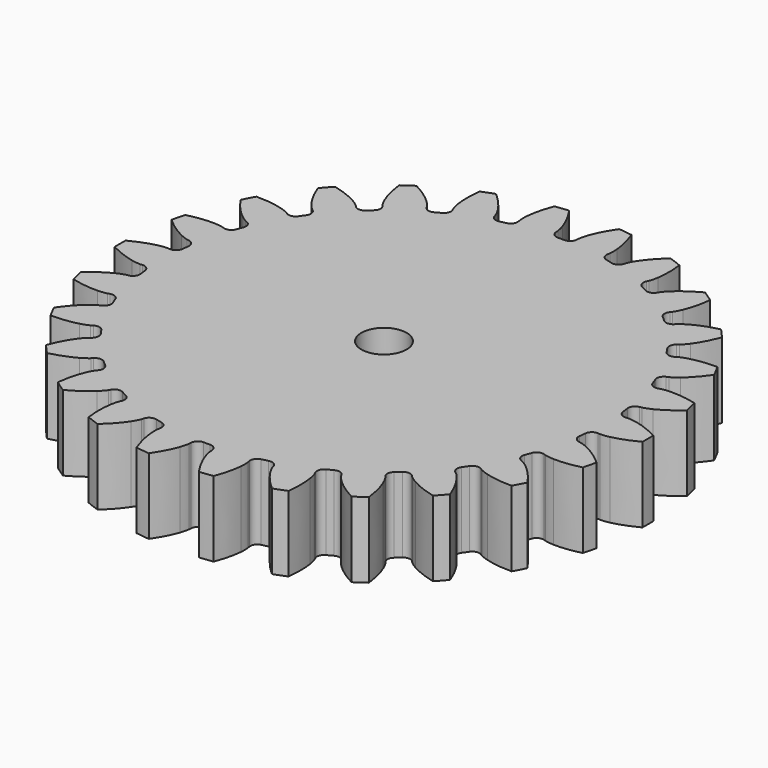
from build123d import *

# Parameters (mm, degrees)
PAD_DEPTH  = 10
SKETCH_R   = 3
HOLE_DEPTH = 25


with BuildPart() as part:
    # InvoluteGear → Pad (new body)
    with BuildSketch(Plane.XY):
        with BuildLine():
            Line((30.212099, -2.279877), (30.502529, -2.299907))
            add(Edge.make_bspline(
                [(30.502529, -2.299907), (30.632497, -2.302355), (31.024091, -2.295099), (31.676261, -2.158069)],
                knots=[0, 0, 0, 0, 1, 1, 1, 1], degree=3))
            add(Edge.make_bspline(
                [(31.676261, -2.158069), (32.457678, -1.991856), (33.586555, -1.640863), (34.990904, -0.903734)],
                knots=[0, 0, 0, 0, 1, 1, 1, 1], degree=3))
            ThreePointArc((34.990904, -0.903734), (35.002573, 0), (34.990904, 0.903734))
            add(Edge.make_bspline(
                [(34.990904, 0.903734), (33.586555, 1.640863), (32.457678, 1.991856), (31.676261, 2.158069)],
                knots=[0, 0, 0, 0, 1, 1, 1, 1], degree=3))
            add(Edge.make_bspline(
                [(31.676261, 2.158069), (31.024091, 2.295099), (30.632497, 2.302355), (30.502529, 2.299907)],
                knots=[0, 0, 0, 0, 1, 1, 1, 1], degree=3))
            Line((30.502529, 2.299907), (30.212099, 2.279877))
            ThreePointArc((30.212099, 2.279877), (29.541638, 2.494297), (29.209386, 3.114863))
            ThreePointArc((29.209386, 3.114863), (29.160823, 3.540765), (29.10605, 3.965913))
            ThreePointArc((29.10605, 3.965913), (29.280136, 4.64796), (29.8798, 5.016601))
            Line((29.8798, 5.016601), (30.166584, 5.066657))
            add(Edge.make_bspline(
                [(30.166584, 5.066657), (30.293362, 5.095384), (30.67184, 5.196144), (31.272266, 5.485266)],
                knots=[0, 0, 0, 0, 1, 1, 1, 1], degree=3))
            add(Edge.make_bspline(
                [(31.272266, 5.485266), (31.991199, 5.833654), (33.003274, 6.444606), (34.190409, 7.496398)],
                knots=[0, 0, 0, 0, 1, 1, 1, 1], degree=3))
            ThreePointArc((34.190409, 7.496398), (33.985462, 8.376664), (33.757854, 9.251344))
            add(Edge.make_bspline(
                [(33.757854, 9.251344), (32.217906, 9.630971), (31.037834, 9.701607), (30.239346, 9.675985)],
                knots=[0, 0, 0, 0, 1, 1, 1, 1], degree=3))
            add(Edge.make_bspline(
                [(30.239346, 9.675985), (29.573334, 9.652958), (29.191383, 9.566289), (29.065777, 9.532808)],
                knots=[0, 0, 0, 0, 1, 1, 1, 1], degree=3))
            Line((29.065777, 9.532808), (28.78858, 9.443856))
            ThreePointArc((28.78858, 9.443856), (28.086288, 9.491594), (27.615179, 10.014614))
            ThreePointArc((27.615179, 10.014614), (27.466102, 10.416519), (27.311176, 10.816205))
            ThreePointArc((27.311176, 10.816205), (27.316979, 11.520094), (27.810997, 12.021532))
            Line((27.810997, 12.021532), (28.077468, 12.138766))
            add(Edge.make_bspline(
                [(28.077468, 12.138766), (28.193687, 12.196997), (28.537054, 12.385405), (29.050841, 12.809817)],
                knots=[0, 0, 0, 0, 1, 1, 1, 1], degree=3))
            add(Edge.make_bspline(
                [(29.050841, 12.809817), (29.665508, 13.320134), (30.501964, 14.155538), (31.402893, 15.460867)],
                knots=[0, 0, 0, 0, 1, 1, 1, 1], degree=3))
            ThreePointArc((31.402893, 15.460867), (30.99324, 16.266507), (30.56292, 17.0613))
            add(Edge.make_bspline(
                [(30.56292, 17.0613), (28.97687, 17.061362), (27.814185, 16.847536), (27.045031, 16.631567)],
                knots=[0, 0, 0, 0, 1, 1, 1, 1], degree=3))
            add(Edge.make_bspline(
                [(27.045031, 16.631567), (26.403883, 16.449823), (26.053772, 16.274265), (25.939828, 16.211698)],
                knots=[0, 0, 0, 0, 1, 1, 1, 1], degree=3))
            Line((25.939828, 16.211698), (25.691973, 16.058993))
            ThreePointArc((25.691973, 16.058993), (24.998664, 15.937274), (24.416078, 16.332353))
            ThreePointArc((24.416078, 16.332353), (24.175151, 16.686902), (23.929076, 17.037898))
            ThreePointArc((23.929076, 17.037898), (23.766258, 17.722722), (24.125919, 18.327815))
            Line((24.125919, 18.327815), (24.356591, 18.505413))
            add(Edge.make_bspline(
                [(24.356591, 18.505413), (24.455497, 18.589766), (24.743798, 18.854872), (25.141086, 19.389909)],
                knots=[0, 0, 0, 0, 1, 1, 1, 1], degree=3))
            add(Edge.make_bspline(
                [(25.141086, 19.389909), (25.615766, 20.032496), (26.22799, 21.043802), (26.790354, 22.526807)],
                knots=[0, 0, 0, 0, 1, 1, 1, 1], degree=3))
            ThreePointArc((26.790354, 22.526807), (26.199802, 23.211), (25.591781, 23.879716))
            add(Edge.make_bspline(
                [(25.591781, 23.879716), (24.051804, 23.500209), (22.974076, 23.014347), (22.278957, 22.620584)],
                knots=[0, 0, 0, 0, 1, 1, 1, 1], degree=3))
            add(Edge.make_bspline(
                [(22.278957, 22.620584), (21.699934, 22.290684), (21.40201, 22.03644), (21.30635, 21.948423)],
                knots=[0, 0, 0, 0, 1, 1, 1, 1], degree=3))
            Line((21.30635, 21.948423), (21.102243, 21.74084))
            ThreePointArc((21.102243, 21.74084), (20.458209, 21.456738), (19.798004, 21.700914))
            ThreePointArc((19.798004, 21.700914), (19.479228, 21.987503), (19.156304, 22.26941))
            ThreePointArc((19.156304, 22.26941), (18.834329, 22.89537), (19.03873, 23.568952))
            Line((19.03873, 23.568952), (19.220197, 23.796593))
            add(Edge.make_bspline(
                [(19.220197, 23.796593), (19.296043, 23.902165), (19.512522, 24.228562), (19.770223, 24.843129)],
                knots=[0, 0, 0, 0, 1, 1, 1, 1], degree=3))
            add(Edge.make_bspline(
                [(19.770223, 24.843129), (20.077328, 25.580642), (20.429741, 26.709076), (20.620857, 28.28357)],
                knots=[0, 0, 0, 0, 1, 1, 1, 1], degree=3))
            ThreePointArc((20.620857, 28.28357), (19.883728, 28.806553), (19.13334, 29.310329))
            add(Edge.make_bspline(
                [(19.13334, 29.310329), (17.728934, 28.573309), (16.798797, 27.843649), (16.218111, 27.294974)],
                knots=[0, 0, 0, 0, 1, 1, 1, 1], degree=3))
            add(Edge.make_bspline(
                [(16.218111, 27.294974), (15.734863, 26.836091), (15.506441, 26.517938), (15.434625, 26.409585)],
                knots=[0, 0, 0, 0, 1, 1, 1, 1], degree=3))
            Line((15.434625, 26.409585), (15.286126, 26.159188))
            ThreePointArc((15.286126, 26.159188), (14.728797, 25.729214), (14.029341, 25.808297))
            ThreePointArc((14.029341, 25.808297), (13.651243, 26.010271), (13.270238, 26.206705))
            ThreePointArc((13.270238, 26.206705), (12.807817, 26.737422), (12.84508, 27.440348))
            Line((12.84508, 27.440348), (12.966796, 27.704802))
            add(Edge.make_bspline(
                [(12.966796, 27.704802), (13.015172, 27.825456), (13.147249, 28.194176), (13.250386, 28.852557)],
                knots=[0, 0, 0, 0, 1, 1, 1, 1], degree=3))
            add(Edge.make_bspline(
                [(13.250386, 28.852557), (13.372069, 29.642134), (13.44419, 30.822116), (13.252951, 32.396595)],
                knots=[0, 0, 0, 0, 1, 1, 1, 1], degree=3))
            ThreePointArc((13.252951, 32.396595), (12.412084, 32.727975), (11.56294, 33.037532))
            add(Edge.make_bspline(
                [(11.56294, 33.037532), (10.375723, 31.985832), (9.647233, 31.054778), (9.214727, 30.38308)],
                knots=[0, 0, 0, 0, 1, 1, 1, 1], degree=3))
            add(Edge.make_bspline(
                [(9.214727, 30.38308), (8.85534, 29.821882), (8.709694, 29.458309), (8.665896, 29.335918)],
                knots=[0, 0, 0, 0, 1, 1, 1, 1], degree=3))
            Line((8.665896, 29.335918), (8.581636, 29.057259))
            ThreePointArc((8.581636, 29.057259), (8.143401, 28.506401), (7.445344, 28.415796))
            ThreePointArc((7.445344, 28.415796), (7.029898, 28.521416), (6.612954, 28.620962))
            ThreePointArc((6.612954, 28.620962), (6.036962, 29.025592), (5.90492, 29.71701))
            Line((5.90492, 29.71701), (5.959811, 30.002908))
            add(Edge.make_bspline(
                [(5.959811, 30.002908), (5.977908, 30.131634), (6.017906, 30.521247), (5.960485, 31.185179)],
                knots=[0, 0, 0, 0, 1, 1, 1, 1], degree=3))
            add(Edge.make_bspline(
                [(5.960485, 31.185179), (5.889674, 31.980933), (5.677311, 33.143887), (5.114832, 34.626848)],
                knots=[0, 0, 0, 0, 1, 1, 1, 1], degree=3))
            ThreePointArc((5.114832, 34.626848), (4.219094, 34.747365), (3.320543, 34.844714))
            add(Edge.make_bspline(
                [(3.320543, 34.844714), (2.419513, 33.539455), (1.935007, 32.461117), (1.675817, 31.705432)],
                knots=[0, 0, 0, 0, 1, 1, 1, 1], degree=3))
            add(Edge.make_bspline(
                [(1.675817, 31.705432), (1.461176, 31.074534), (1.406771, 30.68667), (1.393536, 30.557354)],
                knots=[0, 0, 0, 0, 1, 1, 1, 1], degree=3))
            Line((1.393536, 30.557354), (1.378412, 30.266627))
            ThreePointArc((1.378412, 30.266627), (1.08474, 29.626901), (0.428651, 29.371872))
            ThreePointArc((0.428651, 29.371872), (0, 29.375), (-0.428651, 29.371872))
            ThreePointArc((-0.428651, 29.371872), (-1.08474, 29.626901), (-1.378412, 30.266627))
            Line((-1.378412, 30.266627), (-1.393536, 30.557354))
            add(Edge.make_bspline(
                [(-1.393536, 30.557354), (-1.406771, 30.68667), (-1.461176, 31.074534), (-1.675817, 31.705432)],
                knots=[0, 0, 0, 0, 1, 1, 1, 1], degree=3))
            add(Edge.make_bspline(
                [(-1.675817, 31.705432), (-1.935007, 32.461117), (-2.419513, 33.539455), (-3.320543, 34.844714)],
                knots=[0, 0, 0, 0, 1, 1, 1, 1], degree=3))
            ThreePointArc((-3.320543, 34.844714), (-4.219094, 34.747365), (-5.114832, 34.626848))
            add(Edge.make_bspline(
                [(-5.114832, 34.626848), (-5.677311, 33.143887), (-5.889674, 31.980933), (-5.960485, 31.185179)],
                knots=[0, 0, 0, 0, 1, 1, 1, 1], degree=3))
            add(Edge.make_bspline(
                [(-5.960485, 31.185179), (-6.017906, 30.521247), (-5.977908, 30.131634), (-5.959811, 30.002908)],
                knots=[0, 0, 0, 0, 1, 1, 1, 1], degree=3))
            Line((-5.959811, 30.002908), (-5.90492, 29.71701))
            ThreePointArc((-5.90492, 29.71701), (-6.036962, 29.025592), (-6.612954, 28.620962))
            ThreePointArc((-6.612954, 28.620962), (-7.029898, 28.521416), (-7.445344, 28.415796))
            ThreePointArc((-7.445344, 28.415796), (-8.143401, 28.506401), (-8.581636, 29.057259))
            Line((-8.581636, 29.057259), (-8.665896, 29.335918))
            add(Edge.make_bspline(
                [(-8.665896, 29.335918), (-8.709694, 29.458309), (-8.85534, 29.821882), (-9.214727, 30.38308)],
                knots=[0, 0, 0, 0, 1, 1, 1, 1], degree=3))
            add(Edge.make_bspline(
                [(-9.214727, 30.38308), (-9.647233, 31.054778), (-10.375723, 31.985832), (-11.56294, 33.037532)],
                knots=[0, 0, 0, 0, 1, 1, 1, 1], degree=3))
            ThreePointArc((-11.56294, 33.037532), (-12.412084, 32.727975), (-13.252951, 32.396595))
            add(Edge.make_bspline(
                [(-13.252951, 32.396595), (-13.44419, 30.822116), (-13.372069, 29.642134), (-13.250386, 28.852557)],
                knots=[0, 0, 0, 0, 1, 1, 1, 1], degree=3))
            add(Edge.make_bspline(
                [(-13.250386, 28.852557), (-13.147249, 28.194176), (-13.015172, 27.825456), (-12.966796, 27.704802)],
                knots=[0, 0, 0, 0, 1, 1, 1, 1], degree=3))
            Line((-12.966796, 27.704802), (-12.84508, 27.440348))
            ThreePointArc((-12.84508, 27.440348), (-12.807817, 26.737422), (-13.270238, 26.206705))
            ThreePointArc((-13.270238, 26.206705), (-13.651243, 26.010271), (-14.029341, 25.808297))
            ThreePointArc((-14.029341, 25.808297), (-14.728797, 25.729214), (-15.286126, 26.159188))
            Line((-15.286126, 26.159188), (-15.434625, 26.409585))
            add(Edge.make_bspline(
                [(-15.434625, 26.409585), (-15.506441, 26.517938), (-15.734863, 26.836091), (-16.218111, 27.294974)],
                knots=[0, 0, 0, 0, 1, 1, 1, 1], degree=3))
            add(Edge.make_bspline(
                [(-16.218111, 27.294974), (-16.798797, 27.843649), (-17.728934, 28.573309), (-19.13334, 29.310329)],
                knots=[0, 0, 0, 0, 1, 1, 1, 1], degree=3))
            ThreePointArc((-19.13334, 29.310329), (-19.883728, 28.806553), (-20.620857, 28.28357))
            add(Edge.make_bspline(
                [(-20.620857, 28.28357), (-20.429741, 26.709076), (-20.077328, 25.580642), (-19.770223, 24.843129)],
                knots=[0, 0, 0, 0, 1, 1, 1, 1], degree=3))
            add(Edge.make_bspline(
                [(-19.770223, 24.843129), (-19.512522, 24.228562), (-19.296043, 23.902165), (-19.220197, 23.796593)],
                knots=[0, 0, 0, 0, 1, 1, 1, 1], degree=3))
            Line((-19.220197, 23.796593), (-19.03873, 23.568952))
            ThreePointArc((-19.03873, 23.568952), (-18.834329, 22.89537), (-19.156304, 22.26941))
            ThreePointArc((-19.156304, 22.26941), (-19.479228, 21.987503), (-19.798004, 21.700914))
            ThreePointArc((-19.798004, 21.700914), (-20.458209, 21.456738), (-21.102243, 21.74084))
            Line((-21.102243, 21.74084), (-21.30635, 21.948423))
            add(Edge.make_bspline(
                [(-21.30635, 21.948423), (-21.40201, 22.03644), (-21.699934, 22.290684), (-22.278957, 22.620584)],
                knots=[0, 0, 0, 0, 1, 1, 1, 1], degree=3))
            add(Edge.make_bspline(
                [(-22.278957, 22.620584), (-22.974076, 23.014347), (-24.051804, 23.500209), (-25.591781, 23.879716)],
                knots=[0, 0, 0, 0, 1, 1, 1, 1], degree=3))
            ThreePointArc((-25.591781, 23.879716), (-26.199802, 23.211), (-26.790354, 22.526807))
            add(Edge.make_bspline(
                [(-26.790354, 22.526807), (-26.22799, 21.043802), (-25.615766, 20.032496), (-25.141086, 19.389909)],
                knots=[0, 0, 0, 0, 1, 1, 1, 1], degree=3))
            add(Edge.make_bspline(
                [(-25.141086, 19.389909), (-24.743798, 18.854872), (-24.455497, 18.589766), (-24.356591, 18.505413)],
                knots=[0, 0, 0, 0, 1, 1, 1, 1], degree=3))
            Line((-24.356591, 18.505413), (-24.125919, 18.327815))
            ThreePointArc((-24.125919, 18.327815), (-23.766258, 17.722722), (-23.929076, 17.037898))
            ThreePointArc((-23.929076, 17.037898), (-24.175151, 16.686902), (-24.416078, 16.332353))
            ThreePointArc((-24.416078, 16.332353), (-24.998664, 15.937274), (-25.691973, 16.058993))
            Line((-25.691973, 16.058993), (-25.939828, 16.211698))
            add(Edge.make_bspline(
                [(-25.939828, 16.211698), (-26.053772, 16.274265), (-26.403883, 16.449823), (-27.045031, 16.631567)],
                knots=[0, 0, 0, 0, 1, 1, 1, 1], degree=3))
            add(Edge.make_bspline(
                [(-27.045031, 16.631567), (-27.814185, 16.847536), (-28.97687, 17.061362), (-30.56292, 17.0613)],
                knots=[0, 0, 0, 0, 1, 1, 1, 1], degree=3))
            ThreePointArc((-30.56292, 17.0613), (-30.99324, 16.266507), (-31.402893, 15.460867))
            add(Edge.make_bspline(
                [(-31.402893, 15.460867), (-30.501964, 14.155538), (-29.665508, 13.320134), (-29.050841, 12.809817)],
                knots=[0, 0, 0, 0, 1, 1, 1, 1], degree=3))
            add(Edge.make_bspline(
                [(-29.050841, 12.809817), (-28.537054, 12.385405), (-28.193687, 12.196997), (-28.077468, 12.138766)],
                knots=[0, 0, 0, 0, 1, 1, 1, 1], degree=3))
            Line((-28.077468, 12.138766), (-27.810997, 12.021532))
            ThreePointArc((-27.810997, 12.021532), (-27.316979, 11.520094), (-27.311176, 10.816205))
            ThreePointArc((-27.311176, 10.816205), (-27.466102, 10.416519), (-27.615179, 10.014614))
            ThreePointArc((-27.615179, 10.014614), (-28.086288, 9.491594), (-28.78858, 9.443856))
            Line((-28.78858, 9.443856), (-29.065777, 9.532808))
            add(Edge.make_bspline(
                [(-29.065777, 9.532808), (-29.191383, 9.566289), (-29.573334, 9.652958), (-30.239346, 9.675985)],
                knots=[0, 0, 0, 0, 1, 1, 1, 1], degree=3))
            add(Edge.make_bspline(
                [(-30.239346, 9.675985), (-31.037834, 9.701607), (-32.217906, 9.630971), (-33.757854, 9.251344)],
                knots=[0, 0, 0, 0, 1, 1, 1, 1], degree=3))
            ThreePointArc((-33.757854, 9.251344), (-33.985462, 8.376664), (-34.190409, 7.496398))
            add(Edge.make_bspline(
                [(-34.190409, 7.496398), (-33.003274, 6.444606), (-31.991199, 5.833654), (-31.272266, 5.485266)],
                knots=[0, 0, 0, 0, 1, 1, 1, 1], degree=3))
            add(Edge.make_bspline(
                [(-31.272266, 5.485266), (-30.67184, 5.196144), (-30.293362, 5.095384), (-30.166584, 5.066657)],
                knots=[0, 0, 0, 0, 1, 1, 1, 1], degree=3))
            Line((-30.166584, 5.066657), (-29.8798, 5.016601))
            ThreePointArc((-29.8798, 5.016601), (-29.280136, 4.64796), (-29.10605, 3.965913))
            ThreePointArc((-29.10605, 3.965913), (-29.160823, 3.540765), (-29.209386, 3.114863))
            ThreePointArc((-29.209386, 3.114863), (-29.541638, 2.494297), (-30.212099, 2.279877))
            Line((-30.212099, 2.279877), (-30.502529, 2.299907))
            add(Edge.make_bspline(
                [(-30.502529, 2.299907), (-30.632497, 2.302355), (-31.024091, 2.295099), (-31.676261, 2.158069)],
                knots=[0, 0, 0, 0, 1, 1, 1, 1], degree=3))
            add(Edge.make_bspline(
                [(-31.676261, 2.158069), (-32.457678, 1.991856), (-33.586555, 1.640863), (-34.990904, 0.903734)],
                knots=[0, 0, 0, 0, 1, 1, 1, 1], degree=3))
            ThreePointArc((-34.990904, 0.903734), (-35.002573, 0), (-34.990904, -0.903734))
            add(Edge.make_bspline(
                [(-34.990904, -0.903734), (-33.586555, -1.640863), (-32.457678, -1.991856), (-31.676261, -2.158069)],
                knots=[0, 0, 0, 0, 1, 1, 1, 1], degree=3))
            add(Edge.make_bspline(
                [(-31.676261, -2.158069), (-31.024091, -2.295099), (-30.632497, -2.302355), (-30.502529, -2.299907)],
                knots=[0, 0, 0, 0, 1, 1, 1, 1], degree=3))
            Line((-30.502529, -2.299907), (-30.212099, -2.279877))
            ThreePointArc((-30.212099, -2.279877), (-29.541638, -2.494297), (-29.209386, -3.114863))
            ThreePointArc((-29.209386, -3.114863), (-29.160823, -3.540765), (-29.10605, -3.965913))
            ThreePointArc((-29.10605, -3.965913), (-29.280136, -4.64796), (-29.8798, -5.016601))
            Line((-29.8798, -5.016601), (-30.166584, -5.066657))
            add(Edge.make_bspline(
                [(-30.166584, -5.066657), (-30.293362, -5.095384), (-30.67184, -5.196144), (-31.272266, -5.485266)],
                knots=[0, 0, 0, 0, 1, 1, 1, 1], degree=3))
            add(Edge.make_bspline(
                [(-31.272266, -5.485266), (-31.991199, -5.833654), (-33.003274, -6.444606), (-34.190409, -7.496398)],
                knots=[0, 0, 0, 0, 1, 1, 1, 1], degree=3))
            ThreePointArc((-34.190409, -7.496398), (-33.985462, -8.376664), (-33.757854, -9.251344))
            add(Edge.make_bspline(
                [(-33.757854, -9.251344), (-32.217906, -9.630971), (-31.037834, -9.701607), (-30.239346, -9.675985)],
                knots=[0, 0, 0, 0, 1, 1, 1, 1], degree=3))
            add(Edge.make_bspline(
                [(-30.239346, -9.675985), (-29.573334, -9.652958), (-29.191383, -9.566289), (-29.065777, -9.532808)],
                knots=[0, 0, 0, 0, 1, 1, 1, 1], degree=3))
            Line((-29.065777, -9.532808), (-28.78858, -9.443856))
            ThreePointArc((-28.78858, -9.443856), (-28.086288, -9.491594), (-27.615179, -10.014614))
            ThreePointArc((-27.615179, -10.014614), (-27.466102, -10.416519), (-27.311176, -10.816205))
            ThreePointArc((-27.311176, -10.816205), (-27.316979, -11.520094), (-27.810997, -12.021532))
            Line((-27.810997, -12.021532), (-28.077468, -12.138766))
            add(Edge.make_bspline(
                [(-28.077468, -12.138766), (-28.193687, -12.196997), (-28.537054, -12.385405), (-29.050841, -12.809817)],
                knots=[0, 0, 0, 0, 1, 1, 1, 1], degree=3))
            add(Edge.make_bspline(
                [(-29.050841, -12.809817), (-29.665508, -13.320134), (-30.501964, -14.155538), (-31.402893, -15.460867)],
                knots=[0, 0, 0, 0, 1, 1, 1, 1], degree=3))
            ThreePointArc((-31.402893, -15.460867), (-30.99324, -16.266507), (-30.56292, -17.0613))
            add(Edge.make_bspline(
                [(-30.56292, -17.0613), (-28.97687, -17.061362), (-27.814185, -16.847536), (-27.045031, -16.631567)],
                knots=[0, 0, 0, 0, 1, 1, 1, 1], degree=3))
            add(Edge.make_bspline(
                [(-27.045031, -16.631567), (-26.403883, -16.449823), (-26.053772, -16.274265), (-25.939828, -16.211698)],
                knots=[0, 0, 0, 0, 1, 1, 1, 1], degree=3))
            Line((-25.939828, -16.211698), (-25.691973, -16.058993))
            ThreePointArc((-25.691973, -16.058993), (-24.998664, -15.937274), (-24.416078, -16.332353))
            ThreePointArc((-24.416078, -16.332353), (-24.175151, -16.686902), (-23.929076, -17.037898))
            ThreePointArc((-23.929076, -17.037898), (-23.766258, -17.722722), (-24.125919, -18.327815))
            Line((-24.125919, -18.327815), (-24.356591, -18.505413))
            add(Edge.make_bspline(
                [(-24.356591, -18.505413), (-24.455497, -18.589766), (-24.743798, -18.854872), (-25.141086, -19.389909)],
                knots=[0, 0, 0, 0, 1, 1, 1, 1], degree=3))
            add(Edge.make_bspline(
                [(-25.141086, -19.389909), (-25.615766, -20.032496), (-26.22799, -21.043802), (-26.790354, -22.526807)],
                knots=[0, 0, 0, 0, 1, 1, 1, 1], degree=3))
            ThreePointArc((-26.790354, -22.526807), (-26.199802, -23.211), (-25.591781, -23.879716))
            add(Edge.make_bspline(
                [(-25.591781, -23.879716), (-24.051804, -23.500209), (-22.974076, -23.014347), (-22.278957, -22.620584)],
                knots=[0, 0, 0, 0, 1, 1, 1, 1], degree=3))
            add(Edge.make_bspline(
                [(-22.278957, -22.620584), (-21.699934, -22.290684), (-21.40201, -22.03644), (-21.30635, -21.948423)],
                knots=[0, 0, 0, 0, 1, 1, 1, 1], degree=3))
            Line((-21.30635, -21.948423), (-21.102243, -21.74084))
            ThreePointArc((-21.102243, -21.74084), (-20.458209, -21.456738), (-19.798004, -21.700914))
            ThreePointArc((-19.798004, -21.700914), (-19.479228, -21.987503), (-19.156304, -22.26941))
            ThreePointArc((-19.156304, -22.26941), (-18.834329, -22.89537), (-19.03873, -23.568952))
            Line((-19.03873, -23.568952), (-19.220197, -23.796593))
            add(Edge.make_bspline(
                [(-19.220197, -23.796593), (-19.296043, -23.902165), (-19.512522, -24.228562), (-19.770223, -24.843129)],
                knots=[0, 0, 0, 0, 1, 1, 1, 1], degree=3))
            add(Edge.make_bspline(
                [(-19.770223, -24.843129), (-20.077328, -25.580642), (-20.429741, -26.709076), (-20.620857, -28.28357)],
                knots=[0, 0, 0, 0, 1, 1, 1, 1], degree=3))
            ThreePointArc((-20.620857, -28.28357), (-19.883728, -28.806553), (-19.13334, -29.310329))
            add(Edge.make_bspline(
                [(-19.13334, -29.310329), (-17.728934, -28.573309), (-16.798797, -27.843649), (-16.218111, -27.294974)],
                knots=[0, 0, 0, 0, 1, 1, 1, 1], degree=3))
            add(Edge.make_bspline(
                [(-16.218111, -27.294974), (-15.734863, -26.836091), (-15.506441, -26.517938), (-15.434625, -26.409585)],
                knots=[0, 0, 0, 0, 1, 1, 1, 1], degree=3))
            Line((-15.434625, -26.409585), (-15.286126, -26.159188))
            ThreePointArc((-15.286126, -26.159188), (-14.728797, -25.729214), (-14.029341, -25.808297))
            ThreePointArc((-14.029341, -25.808297), (-13.651243, -26.010271), (-13.270238, -26.206705))
            ThreePointArc((-13.270238, -26.206705), (-12.807817, -26.737422), (-12.84508, -27.440348))
            Line((-12.84508, -27.440348), (-12.966796, -27.704802))
            add(Edge.make_bspline(
                [(-12.966796, -27.704802), (-13.015172, -27.825456), (-13.147249, -28.194176), (-13.250386, -28.852557)],
                knots=[0, 0, 0, 0, 1, 1, 1, 1], degree=3))
            add(Edge.make_bspline(
                [(-13.250386, -28.852557), (-13.372069, -29.642134), (-13.44419, -30.822116), (-13.252951, -32.396595)],
                knots=[0, 0, 0, 0, 1, 1, 1, 1], degree=3))
            ThreePointArc((-13.252951, -32.396595), (-12.412084, -32.727975), (-11.56294, -33.037532))
            add(Edge.make_bspline(
                [(-11.56294, -33.037532), (-10.375723, -31.985832), (-9.647233, -31.054778), (-9.214727, -30.38308)],
                knots=[0, 0, 0, 0, 1, 1, 1, 1], degree=3))
            add(Edge.make_bspline(
                [(-9.214727, -30.38308), (-8.85534, -29.821882), (-8.709694, -29.458309), (-8.665896, -29.335918)],
                knots=[0, 0, 0, 0, 1, 1, 1, 1], degree=3))
            Line((-8.665896, -29.335918), (-8.581636, -29.057259))
            ThreePointArc((-8.581636, -29.057259), (-8.143401, -28.506401), (-7.445344, -28.415796))
            ThreePointArc((-7.445344, -28.415796), (-7.029898, -28.521416), (-6.612954, -28.620962))
            ThreePointArc((-6.612954, -28.620962), (-6.036962, -29.025592), (-5.90492, -29.71701))
            Line((-5.90492, -29.71701), (-5.959811, -30.002908))
            add(Edge.make_bspline(
                [(-5.959811, -30.002908), (-5.977908, -30.131634), (-6.017906, -30.521247), (-5.960485, -31.185179)],
                knots=[0, 0, 0, 0, 1, 1, 1, 1], degree=3))
            add(Edge.make_bspline(
                [(-5.960485, -31.185179), (-5.889674, -31.980933), (-5.677311, -33.143887), (-5.114832, -34.626848)],
                knots=[0, 0, 0, 0, 1, 1, 1, 1], degree=3))
            ThreePointArc((-5.114832, -34.626848), (-4.219094, -34.747365), (-3.320543, -34.844714))
            add(Edge.make_bspline(
                [(-3.320543, -34.844714), (-2.419513, -33.539455), (-1.935007, -32.461117), (-1.675817, -31.705432)],
                knots=[0, 0, 0, 0, 1, 1, 1, 1], degree=3))
            add(Edge.make_bspline(
                [(-1.675817, -31.705432), (-1.461176, -31.074534), (-1.406771, -30.68667), (-1.393536, -30.557354)],
                knots=[0, 0, 0, 0, 1, 1, 1, 1], degree=3))
            Line((-1.393536, -30.557354), (-1.378412, -30.266627))
            ThreePointArc((-1.378412, -30.266627), (-1.08474, -29.626901), (-0.428651, -29.371872))
            ThreePointArc((-0.428651, -29.371872), (0, -29.375), (0.428651, -29.371872))
            ThreePointArc((0.428651, -29.371872), (1.08474, -29.626901), (1.378412, -30.266627))
            Line((1.378412, -30.266627), (1.393536, -30.557354))
            add(Edge.make_bspline(
                [(1.393536, -30.557354), (1.406771, -30.68667), (1.461176, -31.074534), (1.675817, -31.705432)],
                knots=[0, 0, 0, 0, 1, 1, 1, 1], degree=3))
            add(Edge.make_bspline(
                [(1.675817, -31.705432), (1.935007, -32.461117), (2.419513, -33.539455), (3.320543, -34.844714)],
                knots=[0, 0, 0, 0, 1, 1, 1, 1], degree=3))
            ThreePointArc((3.320543, -34.844714), (4.219094, -34.747365), (5.114832, -34.626848))
            add(Edge.make_bspline(
                [(5.114832, -34.626848), (5.677311, -33.143887), (5.889674, -31.980933), (5.960485, -31.185179)],
                knots=[0, 0, 0, 0, 1, 1, 1, 1], degree=3))
            add(Edge.make_bspline(
                [(5.960485, -31.185179), (6.017906, -30.521247), (5.977908, -30.131634), (5.959811, -30.002908)],
                knots=[0, 0, 0, 0, 1, 1, 1, 1], degree=3))
            Line((5.959811, -30.002908), (5.90492, -29.71701))
            ThreePointArc((5.90492, -29.71701), (6.036962, -29.025592), (6.612954, -28.620962))
            ThreePointArc((6.612954, -28.620962), (7.029898, -28.521416), (7.445344, -28.415796))
            ThreePointArc((7.445344, -28.415796), (8.143401, -28.506401), (8.581636, -29.057259))
            Line((8.581636, -29.057259), (8.665896, -29.335918))
            add(Edge.make_bspline(
                [(8.665896, -29.335918), (8.709694, -29.458309), (8.85534, -29.821882), (9.214727, -30.38308)],
                knots=[0, 0, 0, 0, 1, 1, 1, 1], degree=3))
            add(Edge.make_bspline(
                [(9.214727, -30.38308), (9.647233, -31.054778), (10.375723, -31.985832), (11.56294, -33.037532)],
                knots=[0, 0, 0, 0, 1, 1, 1, 1], degree=3))
            ThreePointArc((11.56294, -33.037532), (12.412084, -32.727975), (13.252951, -32.396595))
            add(Edge.make_bspline(
                [(13.252951, -32.396595), (13.44419, -30.822116), (13.372069, -29.642134), (13.250386, -28.852557)],
                knots=[0, 0, 0, 0, 1, 1, 1, 1], degree=3))
            add(Edge.make_bspline(
                [(13.250386, -28.852557), (13.147249, -28.194176), (13.015172, -27.825456), (12.966796, -27.704802)],
                knots=[0, 0, 0, 0, 1, 1, 1, 1], degree=3))
            Line((12.966796, -27.704802), (12.84508, -27.440348))
            ThreePointArc((12.84508, -27.440348), (12.807817, -26.737422), (13.270238, -26.206705))
            ThreePointArc((13.270238, -26.206705), (13.651243, -26.010271), (14.029341, -25.808297))
            ThreePointArc((14.029341, -25.808297), (14.728797, -25.729214), (15.286126, -26.159188))
            Line((15.286126, -26.159188), (15.434625, -26.409585))
            add(Edge.make_bspline(
                [(15.434625, -26.409585), (15.506441, -26.517938), (15.734863, -26.836091), (16.218111, -27.294974)],
                knots=[0, 0, 0, 0, 1, 1, 1, 1], degree=3))
            add(Edge.make_bspline(
                [(16.218111, -27.294974), (16.798797, -27.843649), (17.728934, -28.573309), (19.13334, -29.310329)],
                knots=[0, 0, 0, 0, 1, 1, 1, 1], degree=3))
            ThreePointArc((19.13334, -29.310329), (19.883728, -28.806553), (20.620857, -28.28357))
            add(Edge.make_bspline(
                [(20.620857, -28.28357), (20.429741, -26.709076), (20.077328, -25.580642), (19.770223, -24.843129)],
                knots=[0, 0, 0, 0, 1, 1, 1, 1], degree=3))
            add(Edge.make_bspline(
                [(19.770223, -24.843129), (19.512522, -24.228562), (19.296043, -23.902165), (19.220197, -23.796593)],
                knots=[0, 0, 0, 0, 1, 1, 1, 1], degree=3))
            Line((19.220197, -23.796593), (19.03873, -23.568952))
            ThreePointArc((19.03873, -23.568952), (18.834329, -22.89537), (19.156304, -22.26941))
            ThreePointArc((19.156304, -22.26941), (19.479228, -21.987503), (19.798004, -21.700914))
            ThreePointArc((19.798004, -21.700914), (20.458209, -21.456738), (21.102243, -21.74084))
            Line((21.102243, -21.74084), (21.30635, -21.948423))
            add(Edge.make_bspline(
                [(21.30635, -21.948423), (21.40201, -22.03644), (21.699934, -22.290684), (22.278957, -22.620584)],
                knots=[0, 0, 0, 0, 1, 1, 1, 1], degree=3))
            add(Edge.make_bspline(
                [(22.278957, -22.620584), (22.974076, -23.014347), (24.051804, -23.500209), (25.591781, -23.879716)],
                knots=[0, 0, 0, 0, 1, 1, 1, 1], degree=3))
            ThreePointArc((25.591781, -23.879716), (26.199802, -23.211), (26.790354, -22.526807))
            add(Edge.make_bspline(
                [(26.790354, -22.526807), (26.22799, -21.043802), (25.615766, -20.032496), (25.141086, -19.389909)],
                knots=[0, 0, 0, 0, 1, 1, 1, 1], degree=3))
            add(Edge.make_bspline(
                [(25.141086, -19.389909), (24.743798, -18.854872), (24.455497, -18.589766), (24.356591, -18.505413)],
                knots=[0, 0, 0, 0, 1, 1, 1, 1], degree=3))
            Line((24.356591, -18.505413), (24.125919, -18.327815))
            ThreePointArc((24.125919, -18.327815), (23.766258, -17.722722), (23.929076, -17.037898))
            ThreePointArc((23.929076, -17.037898), (24.175151, -16.686902), (24.416078, -16.332353))
            ThreePointArc((24.416078, -16.332353), (24.998664, -15.937274), (25.691973, -16.058993))
            Line((25.691973, -16.058993), (25.939828, -16.211698))
            add(Edge.make_bspline(
                [(25.939828, -16.211698), (26.053772, -16.274265), (26.403883, -16.449823), (27.045031, -16.631567)],
                knots=[0, 0, 0, 0, 1, 1, 1, 1], degree=3))
            add(Edge.make_bspline(
                [(27.045031, -16.631567), (27.814185, -16.847536), (28.97687, -17.061362), (30.56292, -17.0613)],
                knots=[0, 0, 0, 0, 1, 1, 1, 1], degree=3))
            ThreePointArc((30.56292, -17.0613), (30.99324, -16.266507), (31.402893, -15.460867))
            add(Edge.make_bspline(
                [(31.402893, -15.460867), (30.501964, -14.155538), (29.665508, -13.320134), (29.050841, -12.809817)],
                knots=[0, 0, 0, 0, 1, 1, 1, 1], degree=3))
            add(Edge.make_bspline(
                [(29.050841, -12.809817), (28.537054, -12.385405), (28.193687, -12.196997), (28.077468, -12.138766)],
                knots=[0, 0, 0, 0, 1, 1, 1, 1], degree=3))
            Line((28.077468, -12.138766), (27.810997, -12.021532))
            ThreePointArc((27.810997, -12.021532), (27.316979, -11.520094), (27.311176, -10.816205))
            ThreePointArc((27.311176, -10.816205), (27.466102, -10.416519), (27.615179, -10.014614))
            ThreePointArc((27.615179, -10.014614), (28.086288, -9.491594), (28.78858, -9.443856))
            Line((28.78858, -9.443856), (29.065777, -9.532808))
            add(Edge.make_bspline(
                [(29.065777, -9.532808), (29.191383, -9.566289), (29.573334, -9.652958), (30.239346, -9.675985)],
                knots=[0, 0, 0, 0, 1, 1, 1, 1], degree=3))
            add(Edge.make_bspline(
                [(30.239346, -9.675985), (31.037834, -9.701607), (32.217906, -9.630971), (33.757854, -9.251344)],
                knots=[0, 0, 0, 0, 1, 1, 1, 1], degree=3))
            ThreePointArc((33.757854, -9.251344), (33.985462, -8.376664), (34.190409, -7.496398))
            add(Edge.make_bspline(
                [(34.190409, -7.496398), (33.003274, -6.444606), (31.991199, -5.833654), (31.272266, -5.485266)],
                knots=[0, 0, 0, 0, 1, 1, 1, 1], degree=3))
            add(Edge.make_bspline(
                [(31.272266, -5.485266), (30.67184, -5.196144), (30.293362, -5.095384), (30.166584, -5.066657)],
                knots=[0, 0, 0, 0, 1, 1, 1, 1], degree=3))
            Line((30.166584, -5.066657), (29.8798, -5.016601))
            ThreePointArc((29.8798, -5.016601), (29.280136, -4.64796), (29.10605, -3.965913))
            ThreePointArc((29.10605, -3.965913), (29.160823, -3.540765), (29.209386, -3.114863))
            ThreePointArc((29.209386, -3.114863), (29.541638, -2.494297), (30.212099, -2.279877))
        make_face()
    extrude(amount=PAD_DEPTH)

    # Sketch (on Face262 of Pad) → Hole (cut)
    with BuildSketch(Plane.XY.offset(10)):
        Circle(SKETCH_R)
    extrude(amount=-HOLE_DEPTH, mode=Mode.SUBTRACT)


solid = part.part
